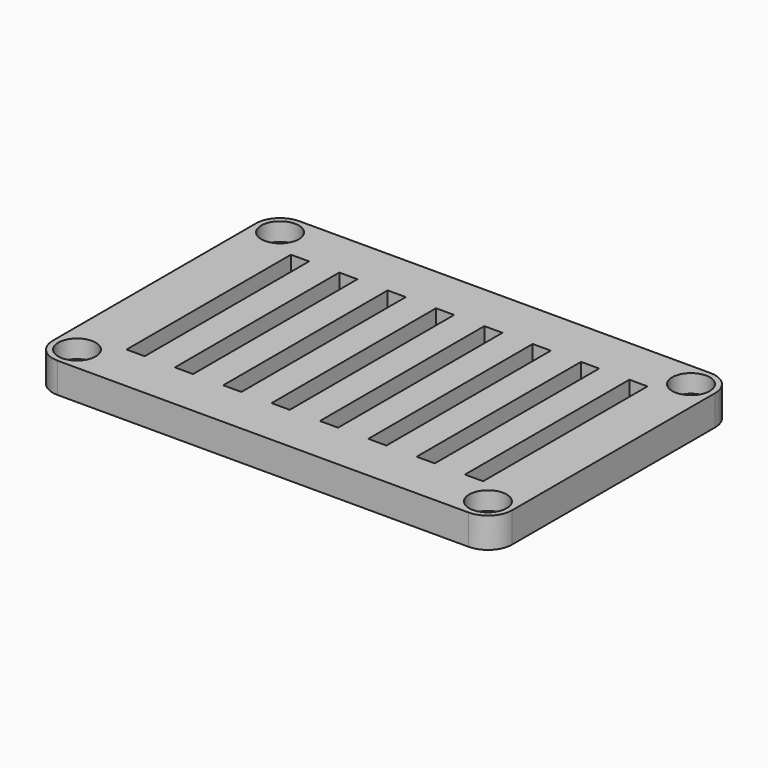
from build123d import *

# Parameters (mm, degrees)
BOX010_W          = 3
BOX010_H          = 34
BOX010_DEPTH      = 15
BOX016_W          = 3
BOX016_H          = 34
BOX016_DEPTH      = 15
BOX013_W          = 3
BOX013_H          = 34
BOX013_DEPTH      = 15
BOX015_W          = 3
BOX015_H          = 34
BOX015_DEPTH      = 15
BOX012_W          = 3
BOX012_H          = 34
BOX012_DEPTH      = 15
BOX014_W          = 3
BOX014_H          = 34
BOX014_DEPTH      = 15
BOX011_W          = 3
BOX011_H          = 34
BOX011_DEPTH      = 15
BOX009_W          = 3
BOX009_H          = 34
BOX009_DEPTH      = 15
CYLINDER015_R     = 3.1
CYLINDER015_DEPTH = 3
CYLINDER017_R     = 3.1
CYLINDER017_DEPTH = 3
CYLINDER016_R     = 3.1
CYLINDER016_DEPTH = 3
CYLINDER014_R     = 3.1
CYLINDER014_DEPTH = 3
CYLINDER010_R     = 1.7
CYLINDER010_DEPTH = 10
CYLINDER013_R     = 1.7
CYLINDER013_DEPTH = 10
CYLINDER011_R     = 1.7
CYLINDER011_DEPTH = 10
CYLINDER012_R     = 1.7
CYLINDER012_DEPTH = 10
BOX008_W          = 71
BOX008_H          = 45
BOX008_DEPTH      = 5
BOX007_W          = 76
BOX007_H          = 50
BOX007_DEPTH      = 5
FILLET006_R       = 4


with BuildPart() as cubo001:
    # Box010 → Box010 (new body)
    with BuildSketch(Plane(origin=(16, 7, 46), x_dir=(1, 0, 0), z_dir=(0, 0, 1))):
        with Locations((1.5, 17)):
            Rectangle(BOX010_W, BOX010_H)
    extrude(amount=BOX010_DEPTH)


with BuildPart() as cubo007:
    # Box016 → Box016 (new body)
    with BuildSketch(Plane(origin=(64, 7, 46), x_dir=(1, 0, 0), z_dir=(0, 0, 1))):
        with Locations((1.5, 17)):
            Rectangle(BOX016_W, BOX016_H)
    extrude(amount=BOX016_DEPTH)


with BuildPart() as cubo004:
    # Box013 → Box013 (new body)
    with BuildSketch(Plane(origin=(40, 7, 46), x_dir=(1, 0, 0), z_dir=(0, 0, 1))):
        with Locations((1.5, 17)):
            Rectangle(BOX013_W, BOX013_H)
    extrude(amount=BOX013_DEPTH)


with BuildPart() as cubo006:
    # Box015 → Box015 (new body)
    with BuildSketch(Plane(origin=(56, 7, 46), x_dir=(1, 0, 0), z_dir=(0, 0, 1))):
        with Locations((1.5, 17)):
            Rectangle(BOX015_W, BOX015_H)
    extrude(amount=BOX015_DEPTH)


with BuildPart() as cubo003:
    # Box012 → Box012 (new body)
    with BuildSketch(Plane(origin=(32, 7, 46), x_dir=(1, 0, 0), z_dir=(0, 0, 1))):
        with Locations((1.5, 17)):
            Rectangle(BOX012_W, BOX012_H)
    extrude(amount=BOX012_DEPTH)


with BuildPart() as cubo005:
    # Box014 → Box014 (new body)
    with BuildSketch(Plane(origin=(48, 7, 46), x_dir=(1, 0, 0), z_dir=(0, 0, 1))):
        with Locations((1.5, 17)):
            Rectangle(BOX014_W, BOX014_H)
    extrude(amount=BOX014_DEPTH)


with BuildPart() as cubo002:
    # Box011 → Box011 (new body)
    with BuildSketch(Plane(origin=(24, 7, 46), x_dir=(1, 0, 0), z_dir=(0, 0, 1))):
        with Locations((1.5, 17)):
            Rectangle(BOX011_W, BOX011_H)
    extrude(amount=BOX011_DEPTH)


with BuildPart() as fusion006:
    # Box009 → Box009 (new body)
    with BuildSketch(Plane(origin=(8, 7, 46), x_dir=(1, 0, 0), z_dir=(0, 0, 1))):
        with Locations((1.5, 17)):
            Rectangle(BOX009_W, BOX009_H)
    extrude(amount=BOX009_DEPTH)

    # Fusion006: union Cubo001, Cubo007, Cubo004, Cubo006, Cubo003, Cubo005, Cubo002
    add(cubo001.part)
    add(cubo007.part)
    add(cubo004.part)
    add(cubo006.part)
    add(cubo003.part)
    add(cubo005.part)
    add(cubo002.part)


with BuildPart() as obj1:
    # Cylinder015 → Cylinder015 (new body)
    with BuildSketch(Plane(origin=(71, 3, 40), x_dir=(1, 0, 0), z_dir=(0, 0, 1))):
        Circle(CYLINDER015_R)
    extrude(amount=CYLINDER015_DEPTH)


with BuildPart() as obj2:
    # Cylinder017 → Cylinder017 (new body)
    with BuildSketch(Plane(origin=(3, 45, 40), x_dir=(1, 0, 0), z_dir=(0, 0, 1))):
        Circle(CYLINDER017_R)
    extrude(amount=CYLINDER017_DEPTH)


with BuildPart() as obj3:
    # Cylinder016 → Cylinder016 (new body)
    with BuildSketch(Plane(origin=(71, 45, 40), x_dir=(1, 0, 0), z_dir=(0, 0, 1))):
        Circle(CYLINDER016_R)
    extrude(amount=CYLINDER016_DEPTH)


with BuildPart() as obj4:
    # Cylinder014 → Cylinder014 (new body)
    with BuildSketch(Plane(origin=(3, 3, 40), x_dir=(1, 0, 0), z_dir=(0, 0, 1))):
        Circle(CYLINDER014_R)
    extrude(amount=CYLINDER014_DEPTH)

    # Fusion005: union obj1, obj2, obj3
    add(obj1.part)
    add(obj2.part)
    add(obj3.part)


with BuildPart() as obj4_1:
    # Fusion005 placement: moved
    add(obj4.part.moved(Location((0, 0, 12))))


with BuildPart() as obj5:
    # Cylinder010 → Cylinder010 (new body)
    with BuildSketch(Plane(origin=(71, 3, 40), x_dir=(1, 0, 0), z_dir=(0, 0, 1))):
        Circle(CYLINDER010_R)
    extrude(amount=CYLINDER010_DEPTH)


with BuildPart() as obj6:
    # Cylinder013 → Cylinder013 (new body)
    with BuildSketch(Plane(origin=(3, 45, 40), x_dir=(1, 0, 0), z_dir=(0, 0, 1))):
        Circle(CYLINDER013_R)
    extrude(amount=CYLINDER013_DEPTH)


with BuildPart() as obj7:
    # Cylinder011 → Cylinder011 (new body)
    with BuildSketch(Plane(origin=(71, 45, 40), x_dir=(1, 0, 0), z_dir=(0, 0, 1))):
        Circle(CYLINDER011_R)
    extrude(amount=CYLINDER011_DEPTH)


with BuildPart() as obj8:
    # Cylinder012 → Cylinder012 (new body)
    with BuildSketch(Plane(origin=(3, 3, 40), x_dir=(1, 0, 0), z_dir=(0, 0, 1))):
        Circle(CYLINDER012_R)
    extrude(amount=CYLINDER012_DEPTH)

    # Fusion004: union obj5, obj6, obj7
    add(obj5.part)
    add(obj6.part)
    add(obj7.part)


with BuildPart() as obj8_1:
    # Fusion004 placement: moved
    add(obj8.part.moved(Location((0, 0, 6))))


with BuildPart() as vaciado_interior001:
    # Box008 → Box008 (new body)
    with BuildSketch(Plane(origin=(1.5, 1.5, 46.5), x_dir=(1, 0, 0), z_dir=(0, 0, 1))):
        with Locations((35.5, 22.5)):
            Rectangle(BOX008_W, BOX008_H)
    extrude(amount=BOX008_DEPTH)


with BuildPart() as obj9:
    # Box007 → Box007 (new body)
    with BuildSketch(Plane(origin=(-1, -1, 50), x_dir=(1, 0, 0), z_dir=(0, 0, 1))):
        with Locations((38, 25)):
            Rectangle(BOX007_W, BOX007_H)
    extrude(amount=BOX007_DEPTH)

    # Cut006: cut vaciado interior001
    add(vaciado_interior001.part, mode=Mode.SUBTRACT)

    # Fillet006
    fillet006_edges = [obj9.edges().sort_by_distance(p)[0] for p in [
        (-1, -1, 52.5),
        (-1, 49, 52.5),
        (75, -1, 52.5),
        (75, 49, 52.5),
    ]]
    fillet(fillet006_edges, radius=FILLET006_R)

    # Cut007: cut obj8
    add(obj8_1.part, mode=Mode.SUBTRACT)

    # Cut008: cut obj4
    add(obj4_1.part, mode=Mode.SUBTRACT)

    # Cut009: cut Fusion006
    add(fusion006.part, mode=Mode.SUBTRACT)


with BuildPart() as obj9_1:
    # Cut009 placement: moved
    add(obj9.part.moved(Location((0, 0, 32))))


solid = obj9_1.part
